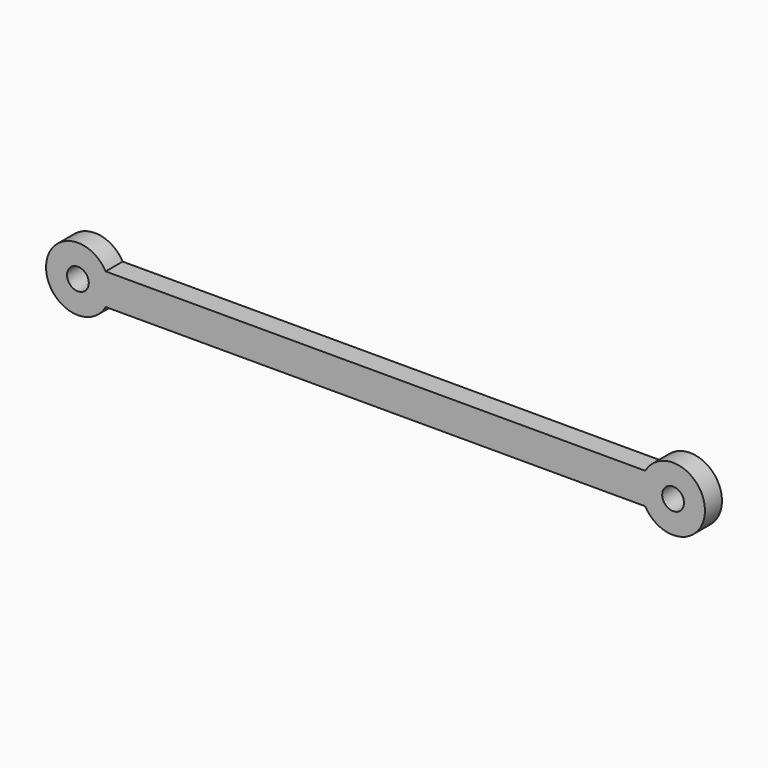
from build123d import *

# Parameters (mm, degrees)
F1_DEPTH = 3.175
F2_R     = 1.6256
F3_DEPTH = 25.4


with BuildPart() as f1:
    # F0 (on Front) → F1 (new body)
    with BuildSketch(Plane.XZ):
        with BuildLine():
            ThreePointArc((4.1462590565, 2.3430625442), (4.6058639258, 1.2113726704), (4.7625, 0))
            ThreePointArc((4.7625, 0), (4.6075575655, -1.2049147401), (4.152812008, -2.3314284626))
            Line((4.152812008, -2.3314284626), (84.747187992, -2.3314284626))
            ThreePointArc((84.747187992, -2.3314284626), (84.1375046796, 0.0066763206), (84.7537409435, 2.3430625442))
            Line((84.7537409435, 2.3430625442), (4.1462590565, 2.3430625442))
        make_face()
        with BuildLine():
            ThreePointArc((4.152812008, -2.3314284626), (4.6075575655, -1.2049147401), (4.7625, 0))
            ThreePointArc((4.7625, 0), (4.6058639258, 1.2113726704), (4.1462590565, 2.3430625442))
            ThreePointArc((4.1462590565, 2.3430625442), (-4.7624953204, -0.0066763206), (4.152812008, -2.3314284626))
        make_face()
        with BuildLine():
            ThreePointArc((93.6625, 0), (90.1113726704, 4.6058639258), (84.7537409435, 2.3430625442))
            ThreePointArc((84.7537409435, 2.3430625442), (84.1375046796, 0.0066763206), (84.747187992, -2.3314284626))
            ThreePointArc((84.747187992, -2.3314284626), (90.1049147401, -4.6075575655), (93.6625, 0))
        make_face()
    extrude(amount=F1_DEPTH)

    # F2 (on face) → F3 (cut)
    with BuildSketch(Plane.XZ.offset(3.175)):
        Circle(F2_R)
        with Locations((88.9, 0)):
            Circle(F2_R)
    extrude(amount=-F3_DEPTH, mode=Mode.SUBTRACT)


solid = f1.part
